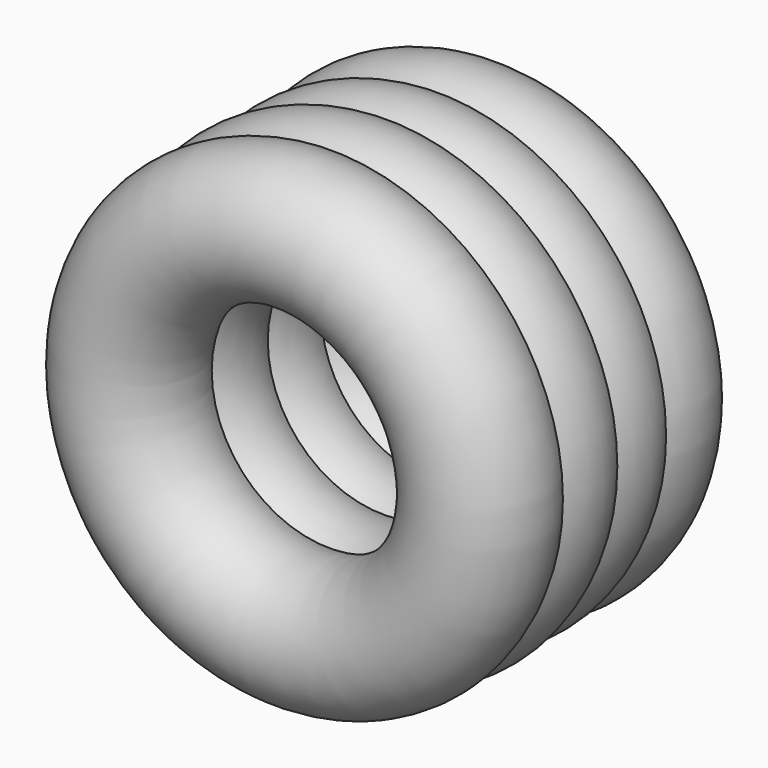
from build123d import *


with BuildPart() as f1:
    # F0 (on Top) → F1 (revolve)
    with BuildSketch(Plane.XY):
        with BuildLine():
            ThreePointArc((-30.207022, 1.989132), (-27.722889, 10.208159), (-29.528438, 18.602401))
            ThreePointArc((-29.528438, 18.602401), (-43.517686, 46.517556), (-59.599564, 19.753249))
            ThreePointArc((-59.599564, 19.753249), (-62.041892, 11.507688), (-60.180131, 3.11197))
            ThreePointArc((-60.180131, 3.11197), (-62.912465, -5.93107), (-60.514477, -15.068459))
            ThreePointArc((-60.514477, -15.068459), (-46.074336, -40.66646), (-30.822082, -15.543879))
            ThreePointArc((-30.822082, -15.543879), (-28.141868, -6.860607), (-30.207022, 1.989132))
        make_face()
    revolve(axis=Axis((0, 1.290485, 0), (0, -1, 0)))


solid = f1.part
